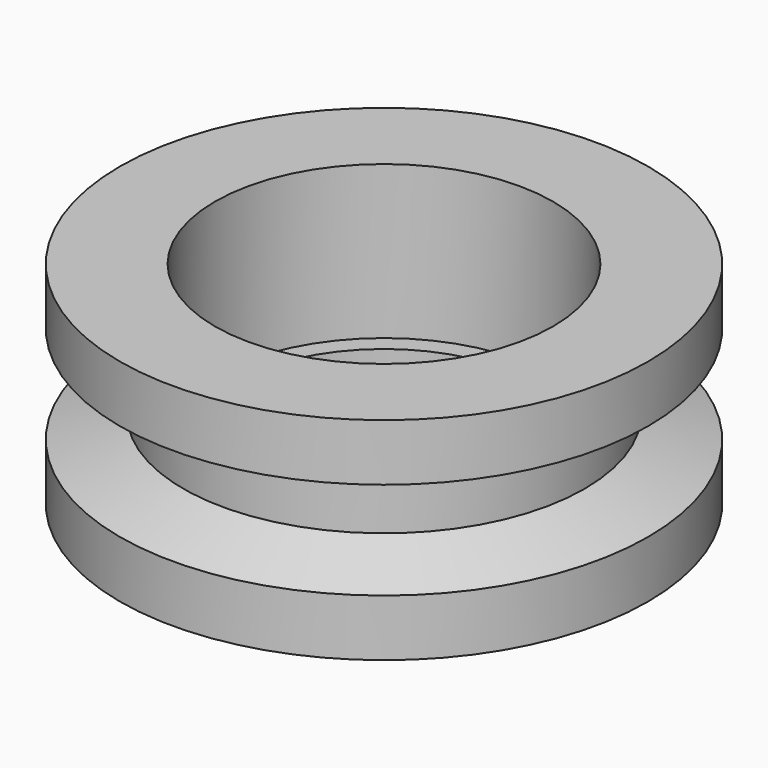
from build123d import *


with BuildPart() as part:
    # Sketch → Revolution001 (revolve)
    with BuildSketch(Plane.XZ):
        Polygon((13.75, -10), (25, -10), (25, -4.615966), (19, -2.55), (19, 2.55), (25, 4.615966), (25, 10), (16, 10), (16, -4.5), (14.25, -4.5), (14.25, -9), (13.75, -9), align=None)
    revolve(axis=Axis((0, 0, 0), (0, 0, 1)))


solid = part.part
